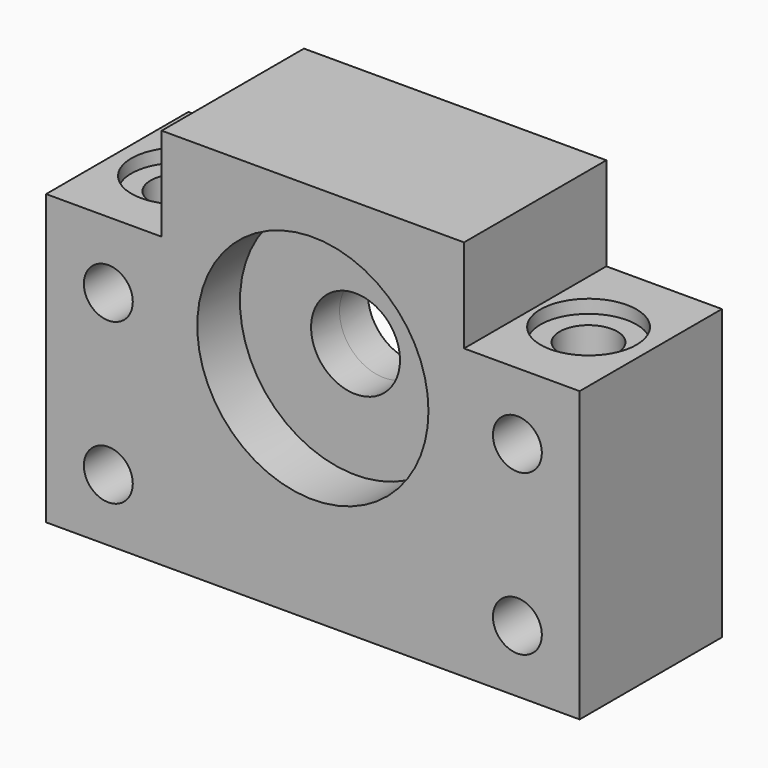
from build123d import *

# Parameters (mm, degrees)
F0_R          = 2.75
F0_R_2        = 13
F1_DEPTH      = 10
F1_DEPTH_BACK = 10
F2_R          = 13
F2_R_2        = 5
F3_DEPTH      = 4
F3_DEPTH_BACK = 4
F4_R          = 3.25
F5_DEPTH      = 32.501
F6_R          = 5.4
F7_DEPTH      = 1.5


with BuildPart() as f1:
    # F0 (on Front) → F1 (new body, two sides)
    with BuildSketch(Plane.XZ) as f1_sk:
        Polygon((-30, -16.25), (30, -16.25), (30, 16.25), (17, 16.25), (17, 26.75), (-17, 26.75), (-17, 16.25), (-30, 16.25), align=None)
        with Locations((-23, -9.25)):
            Circle(F0_R, mode=Mode.SUBTRACT)
        with Locations((23, -9.25)):
            Circle(F0_R, mode=Mode.SUBTRACT)
        with Locations((-23, 8.75)):
            Circle(F0_R, mode=Mode.SUBTRACT)
        with Locations((0, 8.75)):
            Circle(F0_R_2, mode=Mode.SUBTRACT)
        with Locations((23, 8.75)):
            Circle(F0_R, mode=Mode.SUBTRACT)
    extrude(amount=F1_DEPTH)
    extrude(f1_sk.sketch, amount=-F1_DEPTH_BACK)

    # F2 (on Front) → F3 (join, two sides)
    with BuildSketch(Plane.XZ) as f3_sk:
        with Locations((0, 8.75)):
            Circle(F2_R)
        with Locations((0, 8.75)):
            Circle(F2_R_2, mode=Mode.SUBTRACT)
    extrude(amount=F3_DEPTH)
    extrude(f3_sk.sketch, amount=-F3_DEPTH_BACK)

    # F4 (on face) → F5 (cut, through all)
    with BuildSketch(Plane.XY.offset(16.25)):
        with Locations((-23, 0)):
            Circle(F4_R)
        with Locations((23, 0)):
            Circle(F4_R)
    extrude(amount=-F5_DEPTH, mode=Mode.SUBTRACT)

    # F6 (on face) → F7 (cut)
    with BuildSketch(Plane.XY.offset(16.25)):
        with Locations((-23, 0)):
            Circle(F6_R)
        with Locations((23, 0)):
            Circle(F6_R)
    extrude(amount=-F7_DEPTH, mode=Mode.SUBTRACT)


solid = f1.part
